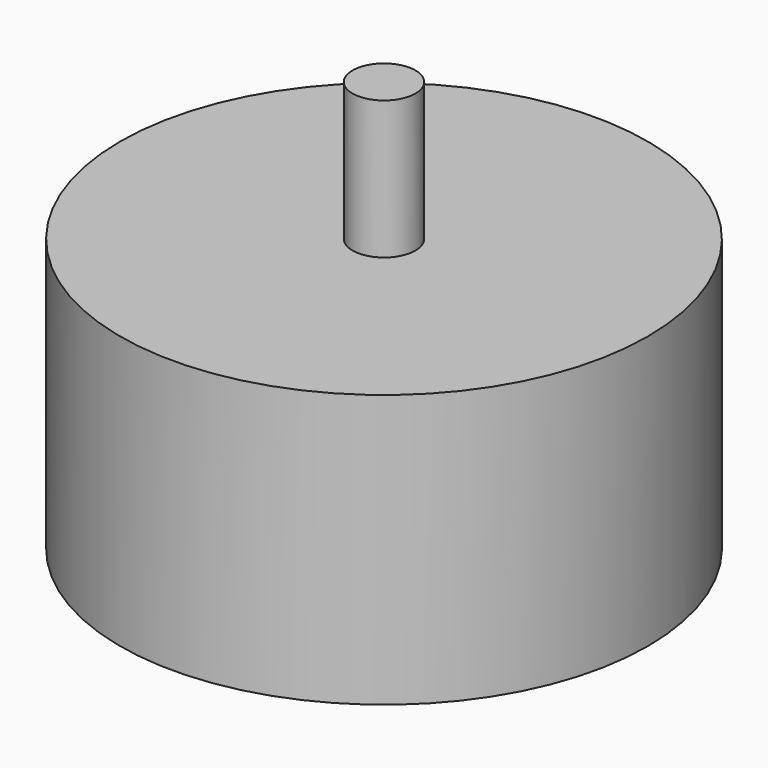
from build123d import *

# Parameters (mm, degrees)
F0_W     = 21
F0_H     = 21.7
F3_D     = 2.5
F3_DEPTH = 6
F3_TIP   = 0.7510757738
F4_R     = 2.5
F5_DEPTH = 11
F6_R     = 2.5
F7_DEPTH = 0.7


with BuildPart() as f1:
    # F0 (on Front) → F1 (revolve)
    with BuildSketch(Plane.XZ):
        with Locations((10.5, 10.85)):
            Rectangle(F0_W, F0_H)
    revolve(axis=Axis((0, 0, 10.85), (0, 0, 1)))

    # F3
    with Locations(Plane(origin=(0, 0, 0), x_dir=(1, 0, 0), z_dir=(0, 0, -1))):
        with Locations((0, 12.5), (0, 8), (-9.5, 0), (9.5, 0), (0, -8), (0, -12.5)):
            Hole(F3_D / 2, depth=F3_DEPTH)
            with Locations((0, 0, -(F3_DEPTH + F3_TIP / 2))):  # 118° drill point
                Cone(0, F3_D / 2, F3_TIP, mode=Mode.SUBTRACT)

    # F4 (on face) → F5 (join)
    with BuildSketch(Plane.XY.offset(21.7)):
        Circle(F4_R)
    extrude(amount=F5_DEPTH)

    # F6 (on face) → F7 (join)
    with BuildSketch(Plane(origin=(0, 0, 0), x_dir=(1, 0, 0), z_dir=(0, 0, -1))):
        Circle(F6_R)
    extrude(amount=F7_DEPTH)


solid = f1.part
